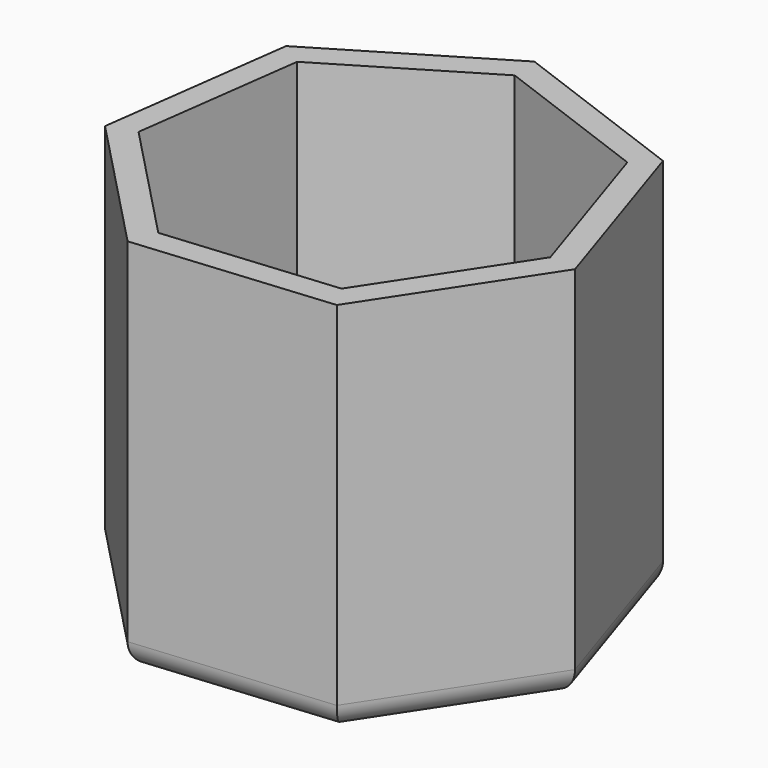
from build123d import *

# Parameters (mm, degrees)
F1_DEPTH = 76.2
F2_T     = -5.08
F3_R     = 5.08


with BuildPart() as f1:
    # F0 (on Top) → F1 (new body)
    with BuildSketch(Plane.XY):
        Polygon((-43.242968, -14.145307), (-15.902303, -42.628169), (23.413121, -39.01115), (45.097987, -6.017939), (32.823149, 31.506902), (-4.168189, 45.306404), (-38.020797, 24.989259), align=None)
    extrude(amount=F1_DEPTH)

    # F2
    f2_openings = [f1.faces().sort_by_distance(p)[0] for p in [
        (0, 0, 76.2),
    ]]
    offset(amount=F2_T, openings=f2_openings)

    # F3
    f3_edges = [f1.edges().sort_by_distance(p)[0] for p in [
        (3.755409, -40.819659, 0),
        (34.255554, -22.514545, 0),
        (38.960568, 12.744482, 0),
        (14.32748, 38.406653, 0),
        (-21.094493, 35.147832, 0),
        (-40.631882, 5.421976, 0),
        (-29.572636, -28.386738, 0),
    ]]
    fillet(f3_edges, radius=F3_R)


solid = f1.part
